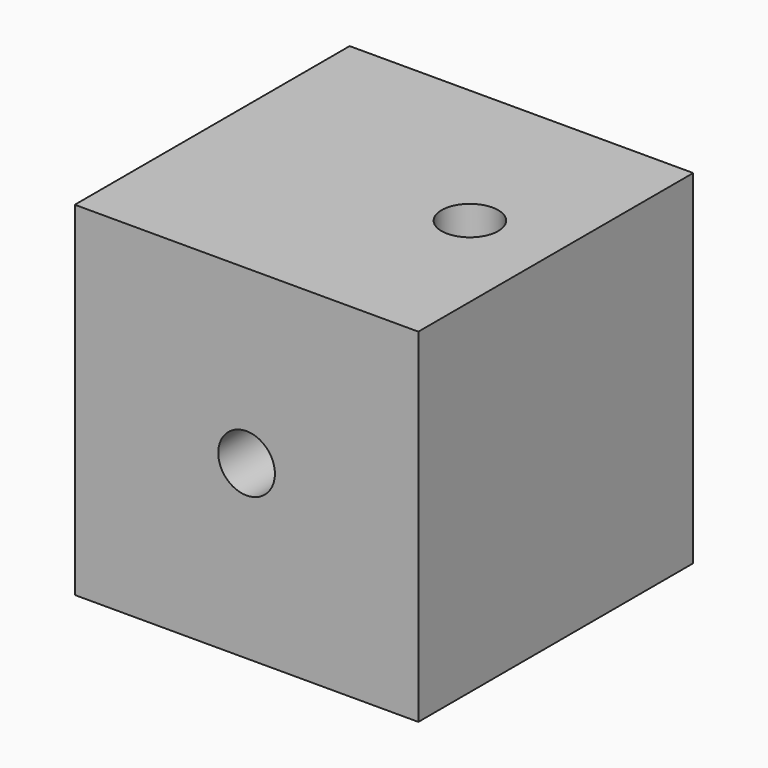
from build123d import *

# Parameters (mm, degrees)
SKETCH_W      = 20
SKETCH_H      = 20
PAD_DEPTH     = 20
SKETCH001_R   = 1.65
HOLE_DEPTH    = 10
HOLE_TIPS_R   = 1.65
SKETCH002_R   = 1.65
HOLE001_DEPTH = 20.001


with BuildPart() as part:
    # Sketch → Pad (new body)
    with BuildSketch(Plane.XY):
        with Locations((-75, 10)):
            Rectangle(SKETCH_W, SKETCH_H)
    extrude(amount=PAD_DEPTH)

    # Sketch001 (on Face1 of Pad) → Hole (cut)
    with BuildSketch(Plane.XZ):
        with Locations((-75, 10)):
            Circle(SKETCH001_R)
    extrude(amount=-HOLE_DEPTH, mode=Mode.SUBTRACT)

    # Hole tips → Hole tip 1 section 0
    with BuildSketch(Plane.XZ.offset(-10), mode=Mode.PRIVATE) as hole_tip_1_s0:
        with Locations((-75, 10)):
            Circle(HOLE_TIPS_R)
    loft([hole_tip_1_s0.sketch, Vertex(-75, 10.99142, 10)], mode=Mode.SUBTRACT)

    # Sketch002 (on Face4 of Hole) → Hole001 (cut, through all)
    with BuildSketch(Plane.XY.offset(20)):
        with Locations((-70, 10)):
            Circle(SKETCH002_R)
    extrude(amount=-HOLE001_DEPTH, mode=Mode.SUBTRACT)


solid = part.part
